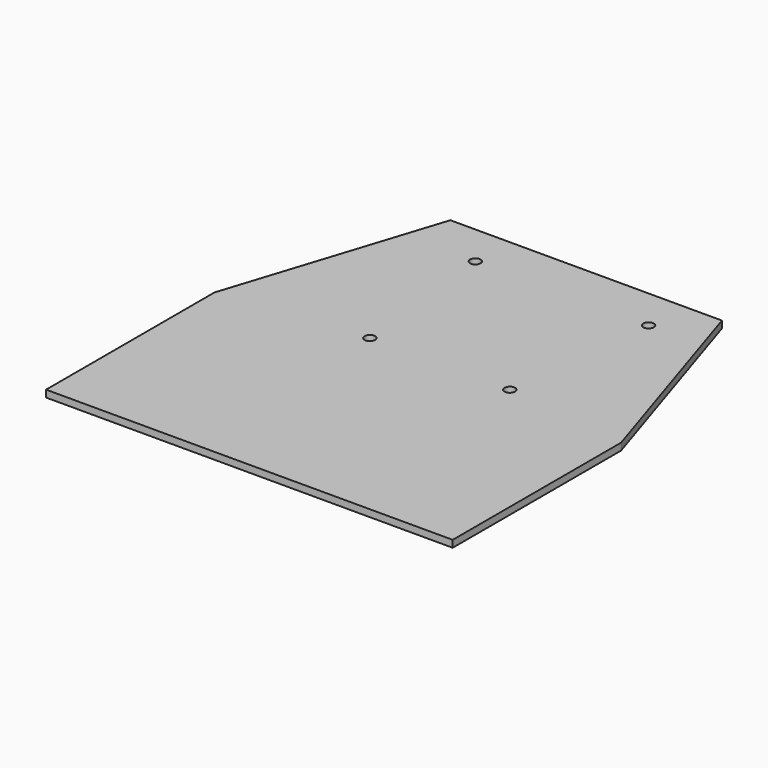
from build123d import *

# Parameters (mm, degrees)
F0_R     = 1.5
F1_DEPTH = 2


with BuildPart() as f1:
    # F0 (on Top) → F1 (new body)
    with BuildSketch(Plane.XY):
        Polygon((38.803197, 50.551262), (-38.803197, 50.551262), (-58.101367, -9.594092), (-58.101367, -69.739446), (-38.803197, -69.739446), (38.803197, -69.739446), (58.101367, -69.739446), (58.101367, -9.594092), align=None)
        with Locations((-17.262137, -5.122542)):
            Circle(F0_R, mode=Mode.SUBTRACT)
        with Locations((-22.010874, 38.486585)):
            Circle(F0_R, mode=Mode.SUBTRACT)
        with Locations((22.737863, -5.122542)):
            Circle(F0_R, mode=Mode.SUBTRACT)
        with Locations((27.486601, 38.486585)):
            Circle(F0_R, mode=Mode.SUBTRACT)
    extrude(amount=F1_DEPTH)


solid = f1.part
